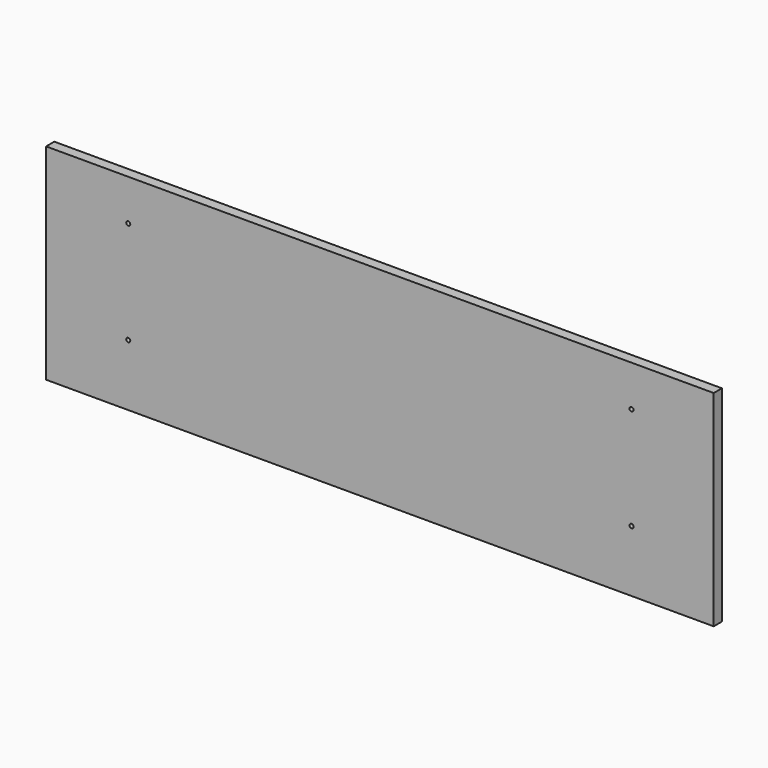
from build123d import *

# Parameters (mm, degrees)
F0_W     = 825.5
F0_H     = 254
F1_DEPTH = 12.7
F3_D     = 5.0038
F3_DEPTH = 14.224


with BuildPart() as f1:
    # F0 (on Front) → F1 (new body)
    with BuildSketch(Plane.XZ):
        Rectangle(F0_W, F0_H)
    extrude(amount=F1_DEPTH)

    # F3
    with Locations(Plane.XZ.offset(12.7)):
        with Locations((-311.15, 76.2), (-311.15, -50.8), (311.15, 76.2), (311.15, -50.8)):
            Hole(F3_D / 2, depth=F3_DEPTH)


solid = f1.part
